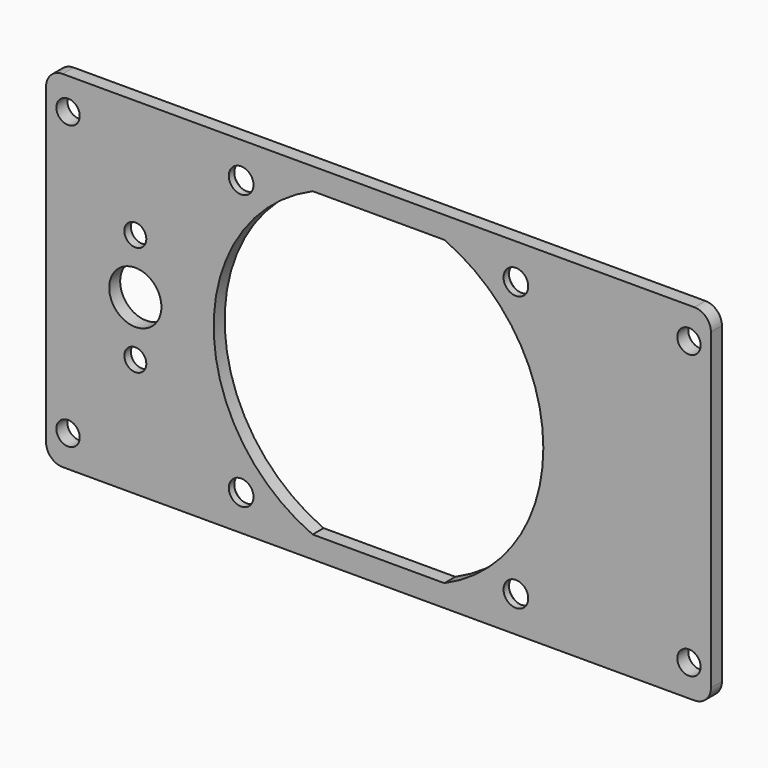
from build123d import *

# Parameters (mm, degrees)
F0_R           = 4.75
F1_DEPTH       = 2.5
F2_D           = 4.25
F3_D           = 4.5
F3_CSINK_D     = 7
F3_CSINK_ANGLE = 90
F4_D           = 4
F4_CBORE_D     = 7
F4_CBORE_DEPTH = 1


with BuildPart() as f1:
    # F0 (on Front) → F1 (new body)
    with BuildSketch(Plane.XZ):
        with BuildLine():
            ThreePointArc((60.5, 28.5), (59.62132, 30.62132), (57.5, 31.5))
            Line((57.5, 31.5), (-57.5, 31.5))
            ThreePointArc((-57.5, 31.5), (-59.62132, 30.62132), (-60.5, 28.5))
            Line((-60.5, 28.5), (-60.5, -28.5))
            ThreePointArc((-60.5, -28.5), (-59.62132, -30.62132), (-57.5, -31.5))
            Line((-57.5, -31.5), (57.5, -31.5))
            ThreePointArc((57.5, -31.5), (59.62132, -30.62132), (60.5, -28.5))
            Line((60.5, -28.5), (60.5, 28.5))
        make_face()
        with Locations((-44.260606, 0)):
            Circle(F0_R, mode=Mode.SUBTRACT)
        with BuildLine():
            ThreePointArc((11.989579, 27.5), (25.096687, 16.436433), (30, 0))
            ThreePointArc((30, 0), (25.096687, -16.436433), (11.989579, -27.5))
            ThreePointArc((11.989579, -27.5), (0, -30), (-11.989579, -27.5))
            ThreePointArc((-11.989579, -27.5), (-30, 0), (-11.989579, 27.5))
            ThreePointArc((-11.989579, 27.5), (0, 30), (11.989579, 27.5))
        make_face(mode=Mode.SUBTRACT)
        with BuildLine():
            Line((-11.989579, 27.5), (11.989579, 27.5))
            ThreePointArc((11.989579, 27.5), (0, 30), (-11.989579, 27.5))
        make_face()
        with BuildLine():
            ThreePointArc((-11.989579, -27.5), (0, -30), (11.989579, -27.5))
            Line((11.989579, -27.5), (-11.989579, -27.5))
        make_face()
    extrude(amount=F1_DEPTH)

    # F2 (through all)
    with Locations(Plane(origin=(0, 0, 0), x_dir=(1, 0, 0), z_dir=(0, 1, 0))):
        with Locations((-56.5, 25.75), (56.5, 25.75), (56.5, -25.75), (-56.5, -25.75)):
            Hole(F2_D / 2)

    # F3 (through all)
    with Locations(Plane(origin=(0, 0, 0), x_dir=(1, 0, 0), z_dir=(0, 1, 0))):
        with Locations((-25, 25), (25, 25), (25, -25), (-25, -25)):
            CounterSinkHole(F3_D / 2, F3_CSINK_D / 2, counter_sink_angle=F3_CSINK_ANGLE)

    # F4 (through all)
    with Locations(Plane(origin=(0, 0, 0), x_dir=(1, 0, 0), z_dir=(0, 1, 0))):
        with Locations((-44.260606, 10), (-44.260606, -10)):
            CounterBoreHole(F4_D / 2, F4_CBORE_D / 2, F4_CBORE_DEPTH)


solid = f1.part
